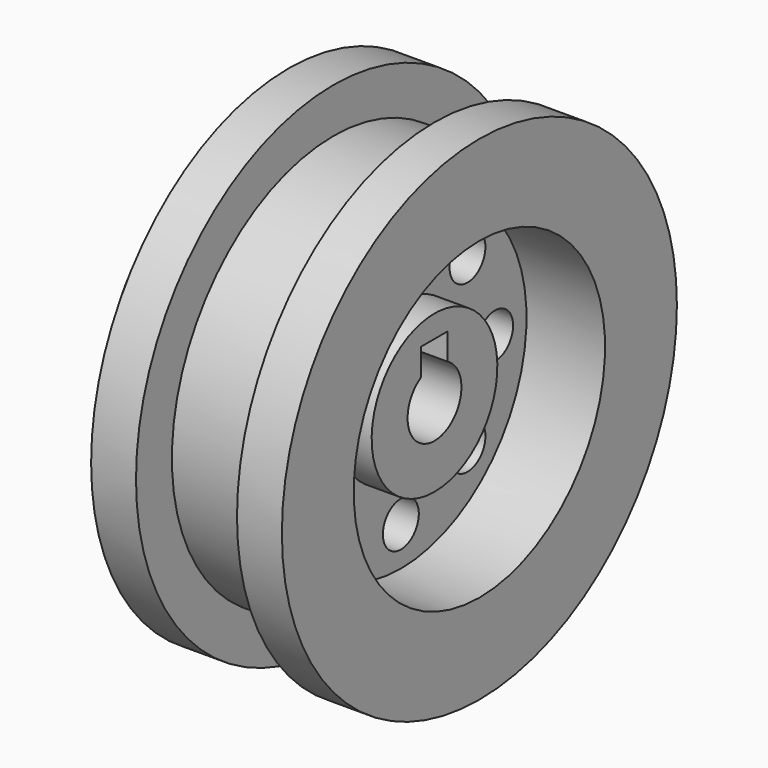
from build123d import *

# Parameters (mm, degrees)
F2_R     = 1.5
F3_R     = 2
F4_DEPTH = 25
F5_W     = 3
F5_H     = 5
F6_DEPTH = 50


with BuildPart() as f1:
    # F0 (on Front) → F1 (revolve)
    with BuildSketch(Plane.XZ):
        Polygon((8.911915, -3), (-14.088085, -3), (-14.088085, -7), (1.911915, -7), (1.911915, -14), (-4.088085, -14), (-4.088085, -22), (-0.088085, -22), (-0.088085, -18), (8.911915, -18), (8.911915, -22), (12.911915, -22), (12.911915, -14), (5.911915, -14), (5.911915, -7), (8.911915, -7), align=None)
    revolve(axis=Axis((-1.3057, 0, 0), (1, 0, 0)))

    # F2
    f2_edges = [f1.edges().sort_by_distance(p)[0] for p in [
        (1.911915, 0, 7),
        (1.911915, 0, 14),
    ]]
    fillet(f2_edges, radius=F2_R)

    # F3 (on face) → F4 (cut)
    with BuildSketch(Plane(origin=(1.911915, 0, 0), x_dir=(0, -1, 0), z_dir=(-1, 0, 0))):
        with Locations((-10.5, 0)):
            Circle(F3_R)
        with Locations((-7.424621, -7.424621)):
            Circle(F3_R)
        with Locations((0, -10.5)):
            Circle(F3_R)
        with Locations((7.424621, -7.424621)):
            Circle(F3_R)
        with Locations((10.5, 0)):
            Circle(F3_R)
        with Locations((7.424621, 7.424621)):
            Circle(F3_R)
        with Locations((0, 10.5)):
            Circle(F3_R)
        with Locations((-7.424621, 7.424621)):
            Circle(F3_R)
    extrude(amount=-F4_DEPTH, mode=Mode.SUBTRACT)

    # F5 (on face) → F6 (cut)
    with BuildSketch(Plane(origin=(-14.088085, 0, 0), x_dir=(0, -1, 0), z_dir=(-1, 0, 0))):
        with Locations((0.026283, 2.5)):
            Rectangle(F5_W, F5_H)
    extrude(amount=-F6_DEPTH, mode=Mode.SUBTRACT)


solid = f1.part
